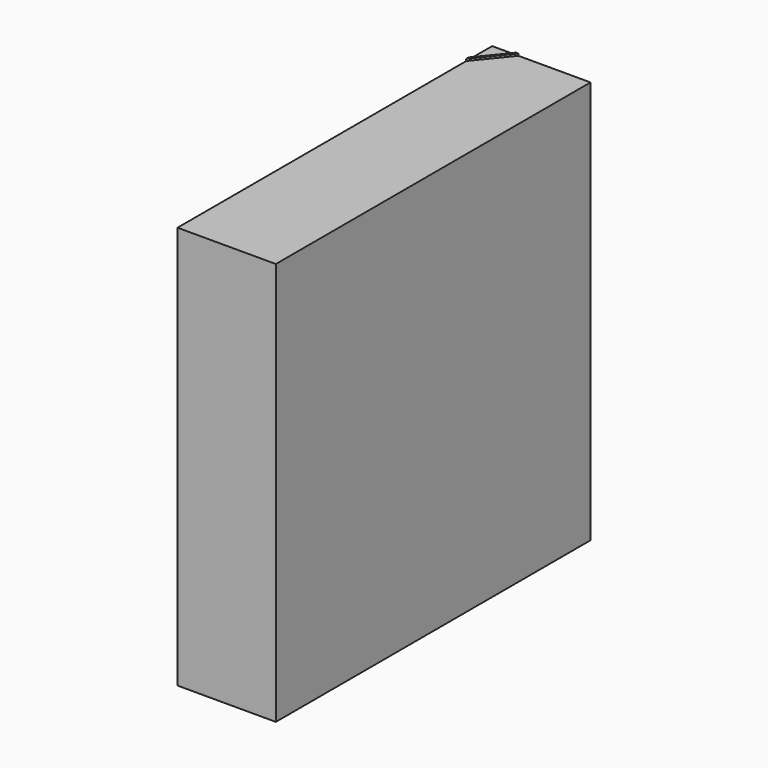
from build123d import *

# Parameters (mm, degrees)
F0_W     = 10
F0_H     = 10.25
F1_DEPTH = 2.5
F3_DEPTH = 0.05


with BuildPart() as f1:
    # F0 (on Right) → F1 (new body)
    with BuildSketch(Plane.YZ):
        with Locations((5, -5.125)):
            Rectangle(F0_W, F0_H)
    extrude(amount=F1_DEPTH)

    # F2 (on Top) → F3 (join)
    with BuildSketch(Plane.XY):
        Polygon((0.643242, 9.968491), (0.668815, 10), (0.604419, 10), (0, 9.255284), (0, 9.175942), (0.038823, 9.223776), align=None)
    extrude(amount=F3_DEPTH)


solid = f1.part
